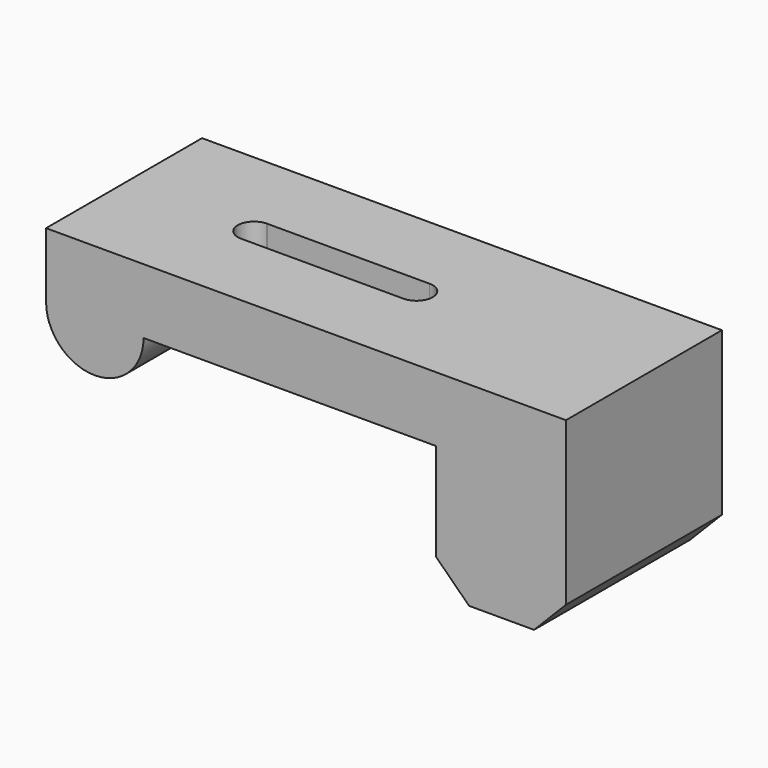
from build123d import *

# Parameters (mm, degrees)
F1_DEPTH = 19.05
F3_DEPTH = 31.17521
F5_DEPTH = 22.95972
F7_DEPTH = 30.07307


with BuildPart() as f1:
    # F0 (on Front) → F1 (new body)
    with BuildSketch(Plane.XZ):
        with BuildLine():
            Line((18.993197, 27.558638), (-31.806803, 27.558638))
            Line((-31.806803, 27.558638), (-31.806803, 21.208638))
            ThreePointArc((-31.806803, 21.208638), (-27.044303, 16.446138), (-22.281803, 21.208638))
            Line((-22.281803, 21.208638), (6.293197, 21.208638))
            Line((6.293197, 21.208638), (6.293197, 8.508638))
            Line((6.293197, 8.508638), (18.993197, 8.508638))
            Line((18.993197, 8.508638), (18.993197, 27.558638))
        make_face()
    extrude(amount=F1_DEPTH)

    # F2 (on face) → F3 (cut)
    with BuildSketch(Plane.XY.offset(27.558638)):
        with BuildLine():
            Line((-19.155291, -7.938241), (-19.058462, -7.938236))
            ThreePointArc((-19.058462, -7.938236), (-19.106877, -7.9375), (-19.155291, -7.938241))
        make_face()
        with BuildLine():
            Line((-3.231877, -7.9375), (-19.058462, -7.938236))
            Line((-19.058462, -7.938236), (-19.155291, -7.938241))
            ThreePointArc((-19.155291, -7.938241), (-20.694118, -9.549247), (-19.106803, -11.1125))
            Line((-19.106803, -11.1125), (-3.231803, -11.1125))
            ThreePointArc((-3.231803, -11.1125), (-1.644303, -9.524963), (-3.231877, -7.9375))
        make_face()
    extrude(amount=-F3_DEPTH, mode=Mode.SUBTRACT)

    # F4 (on face) → F5 (cut)
    with BuildSketch(Plane(origin=(0, 0, 0), x_dir=(-1, 0, 0), z_dir=(0, 1, 0))):
        Polygon((-6.293197, 8.508638), (-6.293197, 11.683638), (-9.526091, 8.508638), align=None)
    extrude(amount=-F5_DEPTH, mode=Mode.SUBTRACT)

    # F6 (on face) → F7 (cut)
    with BuildSketch(Plane.XZ.offset(19.05)):
        Polygon((18.993197, 8.508638), (18.993197, 11.683638), (15.875054, 8.508638), align=None)
    extrude(amount=-F7_DEPTH, mode=Mode.SUBTRACT)


solid = f1.part
